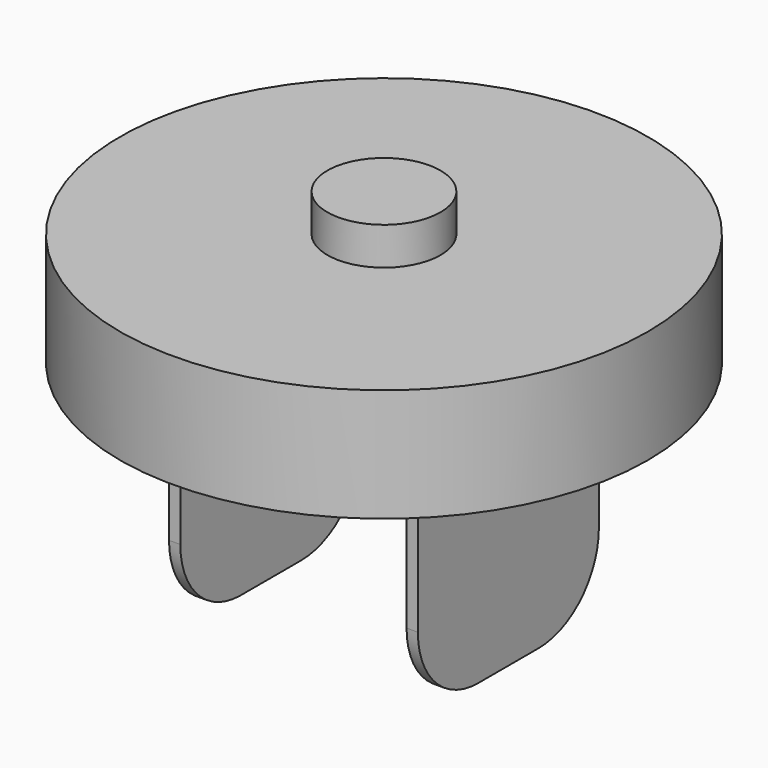
from build123d import *

# Parameters (mm, degrees)
F0_R     = 7
F0_R_2   = 1.5
F1_DEPTH = 3
F2_R     = 1.551902
F3_DEPTH = 1.5
F4_W     = 0.3
F4_H     = 6
F5_DEPTH = 6
F6_R     = 2
F7_R     = 1.5
F8_DEPTH = 4


with BuildPart() as f1:
    # F0 (on Top) → F1 (new body)
    with BuildSketch(Plane.XY):
        Circle(F0_R)
        Circle(F0_R_2, mode=Mode.SUBTRACT)
    extrude(amount=F1_DEPTH)

    # F2 (on face) → F3 (join)
    with BuildSketch(Plane(origin=(0, 0, 0), x_dir=(1, 0, 0), z_dir=(0, 0, -1))):
        Circle(F2_R)
    extrude(amount=-F3_DEPTH)

    # F4 (on face) → F5 (join)
    with BuildSketch(Plane(origin=(0, 0, 0), x_dir=(1, 0, 0), z_dir=(0, 0, -1))):
        with Locations((-3.15, 0)):
            Rectangle(F4_W, F4_H)
        with Locations((3.15, 0)):
            Rectangle(F4_W, F4_H)
    extrude(amount=F5_DEPTH)

    # F6
    f6_edges = [f1.edges().sort_by_distance(p)[0] for p in [
        (-3.15, -3, -6),
        (-3.15, 3, -6),
        (3.15, 3, -6),
        (3.15, -3, -6),
    ]]
    fillet(f6_edges, radius=F6_R)

    # F7 (on face) → F8 (join)
    with BuildSketch(Plane(origin=(0, 0, 0), x_dir=(1, 0, 0), z_dir=(0, 0, -1))):
        Circle(F7_R)
    extrude(amount=-F8_DEPTH)


solid = f1.part
